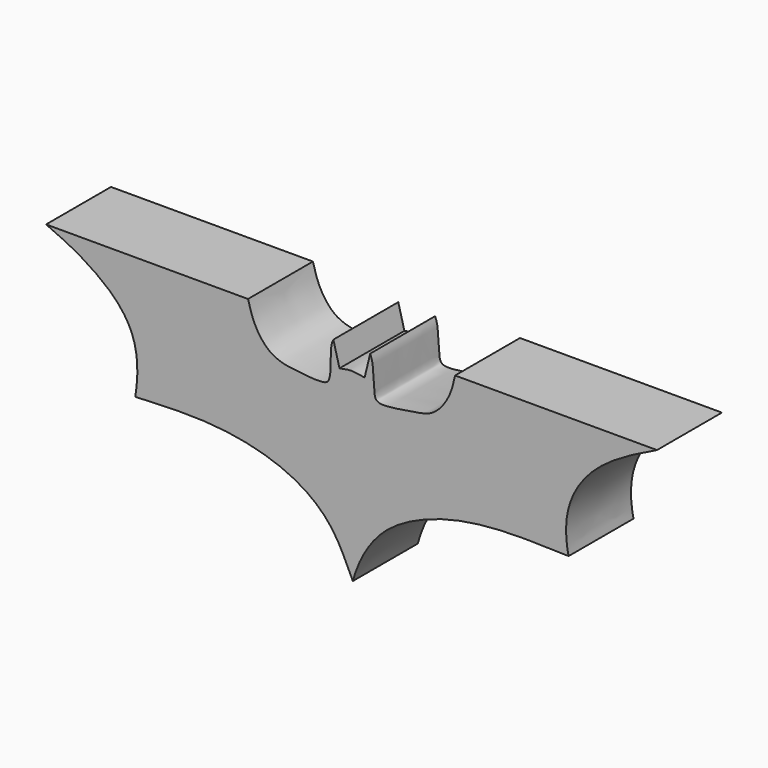
from build123d import *

# Parameters (mm, degrees)
F1_DEPTH = 25.4


with BuildPart() as f1:
    # F0 (on Front) → F1 (new body)
    with BuildSketch(Plane.XZ):
        with BuildLine():
            Line((-30.393736437, 50.8239604533), (-93.5966074467, 50.8239604533))
            add(Edge.make_bspline(
                [(-93.5966074467, 50.8239604533), (-90.6255679027, 49.5295491481), (-84.1181044065, 46.6944019907), (-71.8705699757, 38.5126874048), (-65.530233989, 28.9156767383), (-64.7464993937, 18.9361736784), (-65.3790551881, 14.4305681599), (-65.664537251, 12.3971197754)],
                knots=[0, 0, 0, 0, 0.2000409904, 0.438149484, 0.6481315877, 0.8411964271, 1, 1, 1, 1], degree=3))
            add(Edge.make_bspline(
                [(-65.664537251, 12.3971197754), (-57.0079194122, 12.8118617297), (-40.143007776, 13.6198662577), (-17.0866835676, 8.1021553084), (-3.9355139074, -2.2063849939), (0.8240596539, -12.9995557096), (2.002955181, -15.3899878116), (2.4198268075, -16.2352733314)],
                knots=[0, 0, 0, 0, 0.2659782113, 0.5181814785, 0.7304094016, 0.9046695244, 1, 1, 1, 1], degree=3))
            add(Edge.make_bspline(
                [(69.9683055282, 12.6154590398), (61.8912518837, 12.879705843), (46.4747394932, 13.384068485), (27.2410785624, 9.9126567802), (10.9599356053, 1.5083756137), (4.1250428524, -10.3422009546), (2.9081284498, -14.5477470333), (2.4198268075, -16.2352733314)],
                knots=[0, 0, 0, 0, 0.248904417, 0.4750789332, 0.6918812096, 0.8763636037, 1, 1, 1, 1], degree=3))
            add(Edge.make_bspline(
                [(97.6222679019, 50.8239604533), (94.7775304868, 49.4727283494), (88.7948244026, 46.6309811687), (78.7019230059, 40.3610738145), (71.5573630922, 31.809215533), (68.7317233342, 22.5182920348), (69.4028724055, 15.0025790404), (69.8190239843, 13.2456891144), (69.9683055282, 12.6154590398)],
                knots=[0, 0, 0, 0, 0.1814247634, 0.3815505186, 0.5744198663, 0.7560403043, 0.9124869834, 1, 1, 1, 1], degree=3))
            Line((97.6222679019, 50.8239604533), (34.4193987548, 50.8239604533))
            add(Edge.make_bspline(
                [(34.4193987548, 50.8239604533), (33.9588522311, 48.6949912796), (33.0017431024, 44.2705613342), (27.8607342119, 37.4643628052), (21.3070335627, 36.6393300379), (13.7285483039, 35.226092697), (9.5890493082, 35.4108983013), (9.0046323956, 38.3929198038), (8.8987084711, 45.4919312911), (8.1427345637, 47.4493936877), (7.8500369564, 48.20728302)],
                knots=[0, 0, 0, 0, 0.1396063048, 0.2901302298, 0.4275186602, 0.5790299277, 0.6786191433, 0.7645984858, 0.908857357, 1, 1, 1, 1], degree=3))
            Line((7.8500369564, 48.20728302), (6.1048961709, 41.0328097641))
            add(Edge.make_bspline(
                [(-1.761226682, 41.0328097641), (-0.7496217672, 41.2499211322), (1.1777579478, 41.6635767409), (3.6675612674, 41.4806268413), (5.2926263576, 41.1820499417), (6.1048961709, 41.0328097641)],
                knots=[0, 0, 0, 0, 0.355877812, 0.6780430442, 1, 1, 1, 1], degree=3))
            Line((-1.761226682, 41.0328097641), (-3.6734153982, 48.3293198049))
            add(Edge.make_bspline(
                [(-30.393736437, 50.8239604533), (-29.8438711319, 48.7587355219), (-28.6773532518, 44.3774410733), (-23.3911425798, 37.0228689232), (-14.6947052151, 35.816018223), (-7.1275089099, 35.232861864), (-4.6282122361, 36.3232904877), (-4.4545981205, 42.2091793043), (-4.493549028, 46.5522905096), (-3.9014564503, 47.8352105338), (-3.6734153982, 48.3293198049)],
                knots=[0, 0, 0, 0, 0.1398988301, 0.2967899323, 0.457986875, 0.6056310648, 0.6842137503, 0.8120699891, 0.9276198368, 1, 1, 1, 1], degree=3))
        make_face()
    extrude(amount=F1_DEPTH)


solid = f1.part
